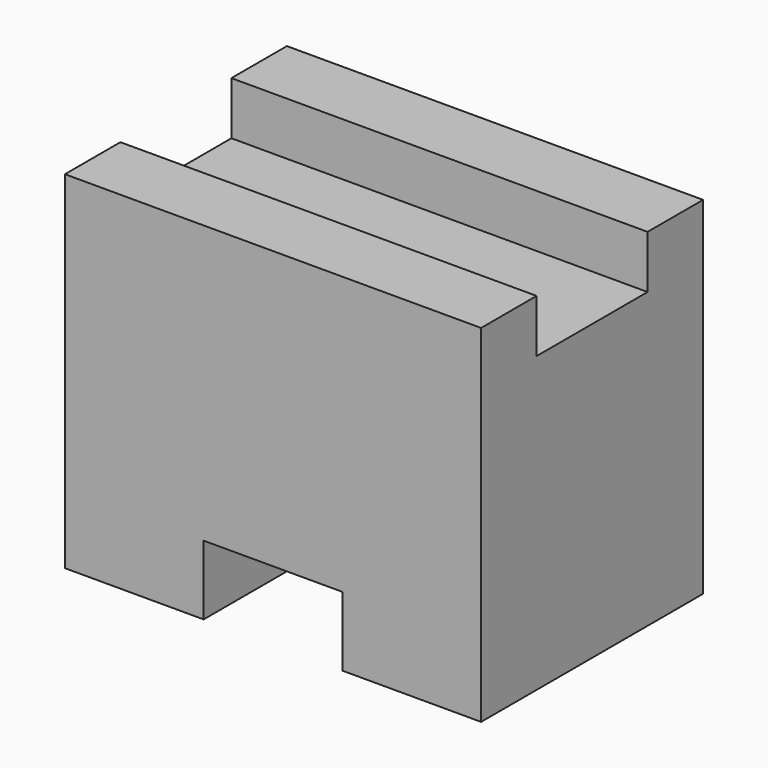
from build123d import *

# Parameters (mm, degrees)
F0_W     = 38.1
F0_H     = 31.75
F1_DEPTH = 25.4
F2_W     = 12.7
F2_H     = 6.35
F3_DEPTH = 25.4
F4_W     = 12.7
F4_H     = 6.35
F5_DEPTH = 38.1


with BuildPart() as f1:
    # F0 (on Front) → F1 (new body)
    with BuildSketch(Plane.XZ):
        with Locations((19.05, 15.875)):
            Rectangle(F0_W, F0_H)
    extrude(amount=F1_DEPTH)

    # F2 (on Front) → F3 (cut)
    with BuildSketch(Plane.XZ):
        with Locations((19.05, 3.175)):
            Rectangle(F2_W, F2_H)
    extrude(amount=F3_DEPTH, mode=Mode.SUBTRACT)

    # F4 (on Right) → F5 (cut)
    with BuildSketch(Plane.YZ):
        with Locations((-12.7, 30.077774)):
            Rectangle(F4_W, F4_H)
    extrude(amount=F5_DEPTH, mode=Mode.SUBTRACT)


solid = f1.part
